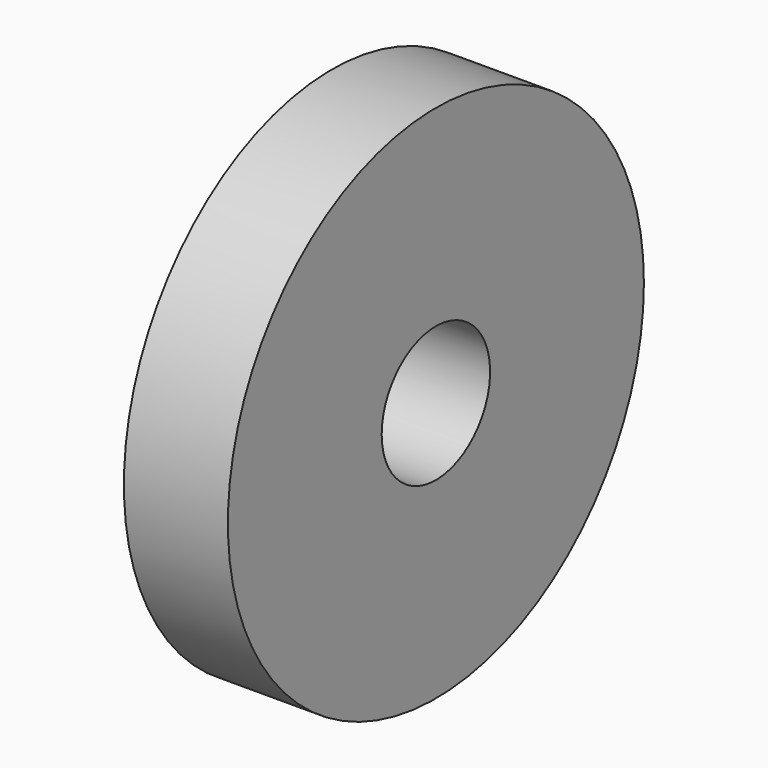
from build123d import *

# Parameters (mm, degrees)
F0_R     = 63.5
F1_DEPTH = 25.4
F2_R     = 16.550362
F3_DEPTH = 25.4


with BuildPart() as f1:
    # F0 (on Right) → F1 (new body)
    with BuildSketch(Plane.YZ):
        Circle(F0_R)
    extrude(amount=F1_DEPTH)

    # F2 (on face) → F3 (cut)
    with BuildSketch(Plane(origin=(0, 0, 0), x_dir=(0, -1, 0), z_dir=(-1, 0, 0))):
        Circle(F2_R)
    extrude(amount=-F3_DEPTH, mode=Mode.SUBTRACT)


solid = f1.part
